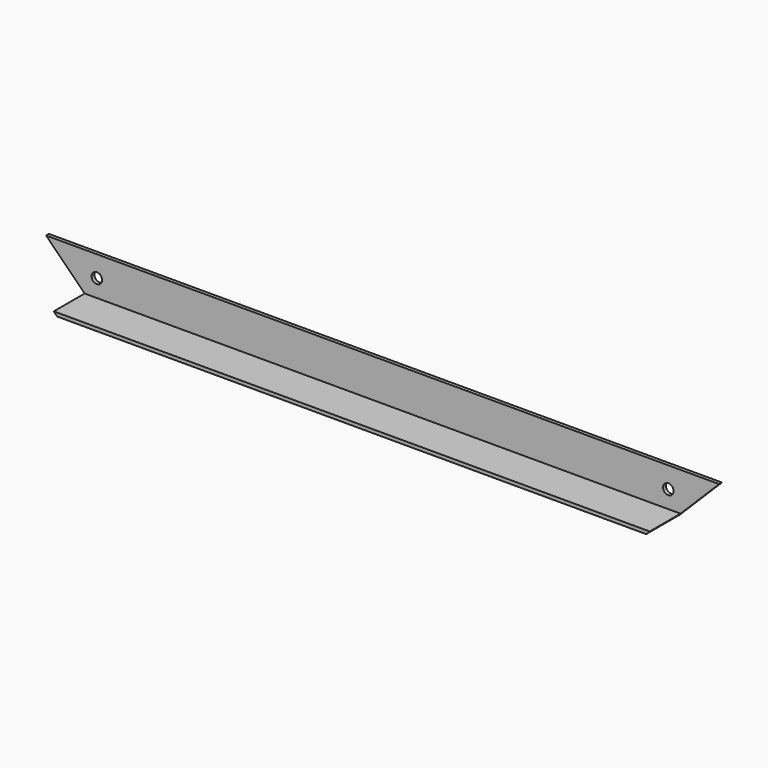
from build123d import *

# Parameters (mm, degrees)
F1_DEPTH = 609.6
F3_DEPTH = 38.101
F4_R     = 4.7625
F5_DEPTH = 38.101


with BuildPart() as f1:
    # F0 (on Right) → F1 (new body)
    with BuildSketch(Plane.YZ):
        Polygon((0, 3.175), (0, 0), (38.1, 0), (38.1, 38.1), (34.925, 38.1), (34.925, 3.175), align=None)
    extrude(amount=F1_DEPTH)

    # F2 (on face) → F3 (cut, through all)
    with BuildSketch(Plane(origin=(0, 38.1, 0), x_dir=(-1, 0, 0), z_dir=(0, 1, 0))):
        Polygon((-571.5, 0), (-609.6, 38.1), (-609.6, 0), align=None)
        Polygon((0, 0), (0, 38.1), (-38.1, 0), align=None)
    extrude(amount=-F3_DEPTH, mode=Mode.SUBTRACT)

    # F4 (on face) → F5 (cut, through all)
    with BuildSketch(Plane(origin=(0, 38.1, 0), x_dir=(-1, 0, 0), z_dir=(0, 1, 0))):
        with Locations((-45.990768, 19.05)):
            Circle(F4_R)
        with Locations((-563.609232, 19.05)):
            Circle(F4_R)
    extrude(amount=-F5_DEPTH, mode=Mode.SUBTRACT)


solid = f1.part
